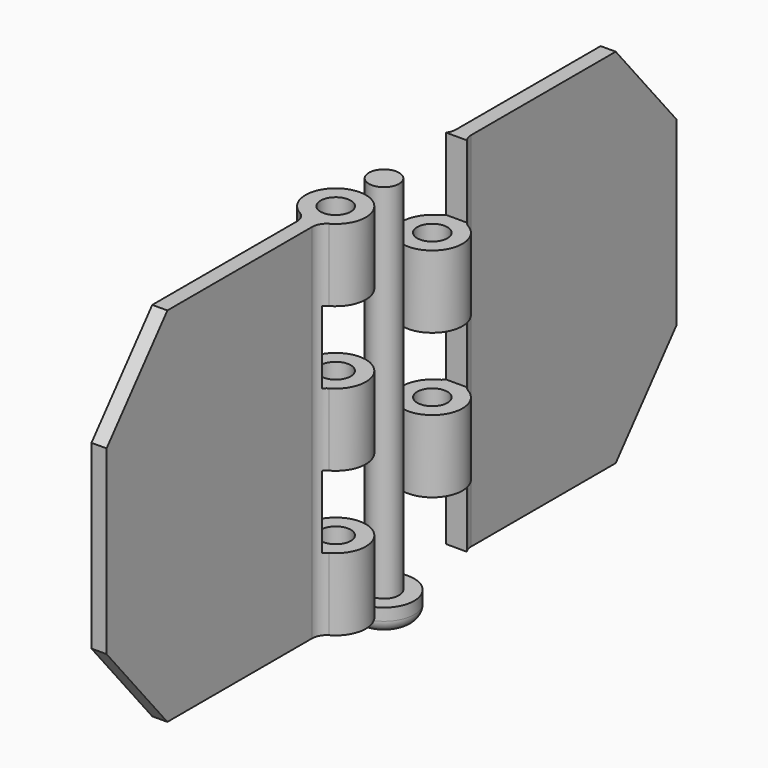
from build123d import *

# Parameters (mm, degrees)
F1_DEPTH  = 3.175
F3_DEPTH  = 76.2
F5_D      = 6.35
F7_W      = 12.7
F7_H      = 15.24
F8_DEPTH  = 19.05
F10_DEPTH = 3.175
F12_DEPTH = 76.2
F14_D     = 6.35
F15_W     = 12.7
F15_H     = 15.24
F16_DEPTH = 19.05
F17_R     = 3.175
F18_DEPTH = 76.2
F19_R     = 6.35
F20_DEPTH = 5.08
F21_R     = 2.54


with BuildPart() as f1:
    # F0 (on Right) → F1 (new body)
    with BuildSketch(Plane.YZ):
        Polygon((0, 0), (0, 76.2), (-39.895152, 76.2), (-55.88, 57.15), (-55.88, 19.05), (-39.895152, 0), align=None)
    extrude(amount=F1_DEPTH)

    # F2 (on face) → F3 (join)
    with BuildSketch(Plane.XY.offset(76.2)):
        with BuildLine():
            ThreePointArc((3.175, -1.820207), (3.555952, -0.344686), (4.603583, 0.762))
            ThreePointArc((4.603583, 0.762), (1.5875, 12.7), (-1.428583, 0.762))
            ThreePointArc((-1.428583, 0.762), (-0.380952, -0.344686), (0, -1.820207))
            Line((0, -1.820207), (0, 0))
            Line((0, 0), (3.175, 0))
            Line((3.175, 0), (3.175, -1.820207))
        make_face()
    extrude(amount=-F3_DEPTH)

    # F5 (through all)
    with Locations(Plane.XY.offset(76.2)):
        with Locations((1.5875, 6.35)):
            Hole(F5_D / 2)

    # F7 (on offset) → F8 (cut)
    with BuildSketch(Plane.YZ.offset(12.7)):
        with Locations((6.35, 22.86)):
            Rectangle(F7_W, F7_H)
        with Locations((6.35, 53.34)):
            Rectangle(F7_W, F7_H)
    extrude(amount=-F8_DEPTH, mode=Mode.SUBTRACT)



with BuildPart() as f10:
    # F9 (on Right) → F10 (new body)
    with BuildSketch(Plane.YZ):
        Polygon((93.98, 57.15), (77.995152, 76.2), (38.1, 76.2), (38.1, 0), (77.995152, 0), (93.98, 19.05), align=None)
    extrude(amount=F10_DEPTH)

    # F11 (on face) → F12 (join)
    with BuildSketch(Plane.XY.offset(76.2)):
        with BuildLine():
            ThreePointArc((0, 39.878), (-0.391068, 38.426208), (-1.428583, 37.338))
            ThreePointArc((-1.428583, 37.338), (1.5875, 25.4), (4.603583, 37.338))
            ThreePointArc((4.603583, 37.338), (3.566068, 38.426208), (3.175, 39.878))
            Line((3.175, 39.878), (3.175, 38.1))
            Line((3.175, 38.1), (0, 38.1))
            Line((0, 38.1), (0, 39.878))
        make_face()
    extrude(amount=-F12_DEPTH)

    # F14 (through all)
    with Locations(Plane.XY.offset(76.2)):
        with Locations((1.5875, 31.75)):
            Hole(F14_D / 2)

    # F15 (on offset) → F16 (cut)
    with BuildSketch(Plane.YZ.offset(12.7)):
        with Locations((31.75, 68.58)):
            Rectangle(F15_W, F15_H)
        with Locations((31.75, 38.1)):
            Rectangle(F15_W, F15_H)
        with Locations((31.75, 7.62)):
            Rectangle(F15_W, F15_H)
    extrude(amount=-F16_DEPTH, mode=Mode.SUBTRACT)


with BuildPart() as f18:
    # F17 (on Top) → F18 (new body)
    with BuildSketch(Plane.XY):
        with Locations((1.5875, 19.05)):
            Circle(F17_R)
    extrude(amount=F18_DEPTH)


with BuildPart() as f1_1:
    add(f1.part)

    add(f18.part)  # F20 merges F18
    # F19 (on face) → F20 (join)
    with BuildSketch(Plane(origin=(0, 0, 0), x_dir=(1, 0, 0), z_dir=(0, 0, -1))):
        with Locations((1.5875, -19.05)):
            Circle(F19_R)
    extrude(amount=F20_DEPTH)

    # F21
    f21_edges = [f1_1.edges().sort_by_distance(p)[0] for p in [
        (-4.7625, 19.05, -5.08),
    ]]
    fillet(f21_edges, radius=F21_R)


solid = Compound([f10.part, f1_1.part])
